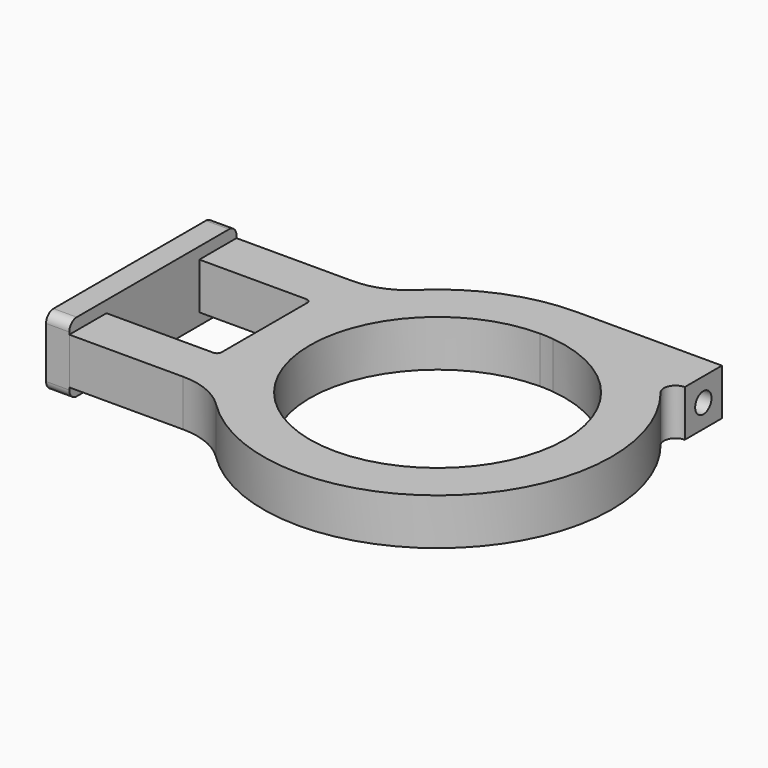
from build123d import *

# Parameters (mm, degrees)
F1_DEPTH       = 10
F5_D           = 3.3
F5_DEPTH       = 12.1
F5_TIP         = 0.9914200214
F5_ON_F4_D     = 3.3
F5_ON_F4_DEPTH = 12.1
F5_ON_F4_TIP   = 0.9914200214
F6_D           = 4.4
F6_DEPTH       = 30
F6_TIP         = 1.3218933619
F7_R           = 1.65
F7_W           = 10
F7_H           = 10
F8_DEPTH       = 5
F9_R           = 2
F10_R          = 1


with BuildPart() as f1:
    # F0 (on Top) → F1 (new body)
    with BuildSketch(Plane.XY):
        with BuildLine():
            Line((-29, 12.75), (-5, 12.75))
            Line((-5, 12.75), (-5, -12.25))
            Line((-5, -12.25), (-29, -12.25))
            Line((-29, -12.25), (-29, -22.25))
            Line((-29, -22.25), (-4.495776786, -22.25))
            ThreePointArc((-4.495776786, -22.25), (1.2207406353, -23.3819998352), (6.0744451529, -26.6071428571))
            ThreePointArc((6.0744451529, -26.6071428571), (57.5628044164, -27.8945484779), (61.7734281175, 23.4375))
            ThreePointArc((61.7734281175, 23.4375), (61.4715204448, 26.0825317547), (63.724989992, 27.5))
            Line((63.724989992, 27.5), (63.724989992, 37.5))
            Line((63.724989992, 37.5), (32.5, 37.5))
            ThreePointArc((32.5, 37.5), (18.4449424456, 34.7664400988), (6.438969784, 26.9642857143))
            ThreePointArc((6.438969784, 26.9642857143), (1.6365807194, 23.8434239605), (-3.9854423024, 22.75))
            Line((-3.9854423024, 22.75), (-29, 22.75))
            Line((-29, 22.75), (-29, 12.75))
        make_face()
        with BuildLine():
            ThreePointArc((60, 0), (13.0545635174, -19.4454364826), (32.5, 27.5))
            ThreePointArc((32.5, 27.5), (34.0022431052, 27.45893781), (35.5, 27.3358738657))
            ThreePointArc((35.5, 27.3358738657), (52.9786474163, 18.354154843), (60, 0))
        make_face(mode=Mode.SUBTRACT)
    extrude(amount=F1_DEPTH)

    # F5
    with Locations(Plane(origin=(-29, 0, 0), x_dir=(0, -1, 0), z_dir=(-1, 0, 0))):
        with Locations((-17.75, 5)):
            Hole(F5_D / 2, depth=F5_DEPTH)
            with Locations((0, 0, -(F5_DEPTH + F5_TIP / 2))):  # 118° drill point
                Cone(0, F5_D / 2, F5_TIP, mode=Mode.SUBTRACT)

    # F5 on F4
    with Locations(Plane(origin=(-29, 0, 0), x_dir=(0, -1, 0), z_dir=(-1, 0, 0))):
        with Locations((17.25, 5)):
            Hole(F5_ON_F4_D / 2, depth=F5_ON_F4_DEPTH)
            with Locations((0, 0, -(F5_ON_F4_DEPTH + F5_ON_F4_TIP / 2))):  # 118° drill point
                Cone(0, F5_ON_F4_D / 2, F5_ON_F4_TIP, mode=Mode.SUBTRACT)

    # F6
    with Locations(Plane.YZ.offset(63.724989992)):
        with Locations((32.5, 5)):
            Hole(F6_D / 2, depth=F6_DEPTH)
            with Locations((0, 0, -(F6_DEPTH + F6_TIP / 2))):  # 118° drill point
                Cone(0, F6_D / 2, F6_TIP, mode=Mode.SUBTRACT)

    # F10
    f10_edges = [f1.edges().sort_by_distance(p)[0] for p in [
        (-5, 12.75, 5),
        (-5, -12.25, 5),
    ]]
    fillet(f10_edges, radius=F10_R)


with BuildPart() as f8:
    # F7 (on face) → F8 (new body)
    with BuildSketch(Plane(origin=(-29, 0, 0), x_dir=(0, -1, 0), z_dir=(-1, 0, 0))):
        Polygon((-22.75, 12.5), (-22.75, -2.5), (22.25, -2.5), (22.25, 0), (12.25, 0), (12.25, 10), (22.25, 10), (22.25, 12.5), align=None)
        with Locations((-17.75, 5)):
            Circle(F7_R, mode=Mode.SUBTRACT)
        with Locations((17.25, 5)):
            Rectangle(F7_W, F7_H)
        with Locations((17.25, 5)):
            Circle(F7_R, mode=Mode.SUBTRACT)
    extrude(amount=F8_DEPTH)

    # F9
    f9_edges = [f8.edges().sort_by_distance(p)[0] for p in [
        (-31.5, 22.75, 12.5),
        (-31.5, -22.25, 12.5),
        (-31.5, -22.25, -2.5),
        (-31.5, 22.75, -2.5),
    ]]
    fillet(f9_edges, radius=F9_R)


solid = Compound([f1.part, f8.part])
